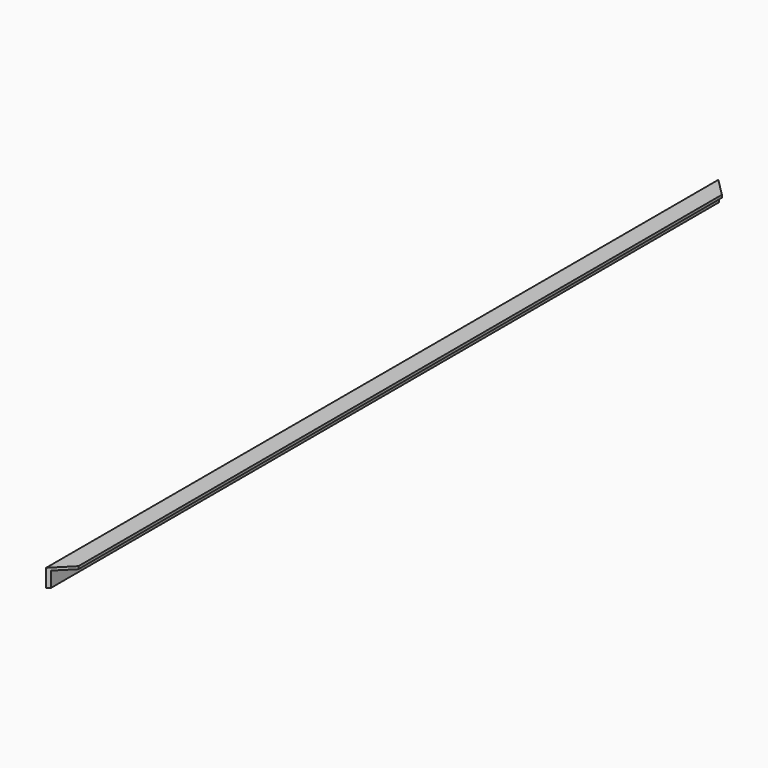
from build123d import *

# Parameters (mm, degrees)
F1_DEPTH = 15
F3_DEPTH = 85


with BuildPart() as f1:
    # F0 (on Top) → F1 (new body)
    with BuildSketch(Plane.XY):
        Polygon((-100, -2240.5), (0, -2340.5), (0, 2340.5), (-100, 2240.5), align=None)
    extrude(amount=F1_DEPTH)

    # F2 (on face) → F3 (join)
    with BuildSketch(Plane.XY.offset(15)):
        Polygon((-15, -2325.5), (0, -2340.5), (0, 2340.5), (-15, 2325.5), align=None)
    extrude(amount=F3_DEPTH)


with BuildPart() as f4_1:
    # F4: instance of F1
    add(f1.part.mirror(Plane.XY))


with BuildPart() as f6_1:
    # F6: instance of F4_1
    add(f4_1.part.mirror(Plane.YZ))


solid = f6_1.part
